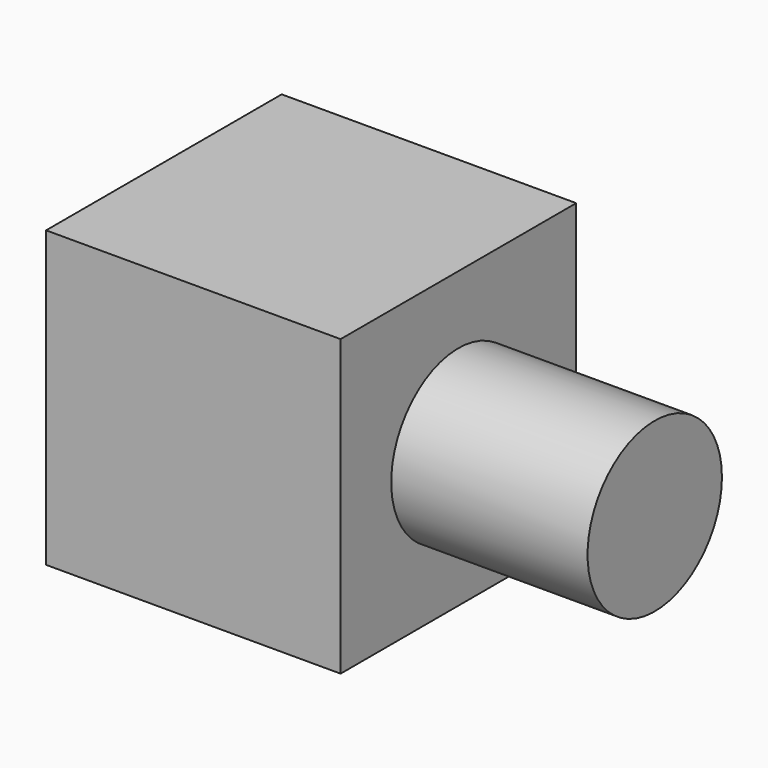
from build123d import *

# Parameters (mm, degrees)
F0_W     = 38.1
F0_H     = 38.1
F1_DEPTH = 19.05
F2_R     = 10.862453
F3_DEPTH = 25.4


with BuildPart() as f1:
    # F0 (on Front) → F1 (new body, symmetric)
    with BuildSketch(Plane.XZ):
        with Locations((-19.05, 19.05)):
            Rectangle(F0_W, F0_H)
    extrude(amount=F1_DEPTH, both=True)

    # F2 (on face) → F3 (join)
    with BuildSketch(Plane.YZ):
        with Locations((0, 18.468129)):
            Circle(F2_R)
    extrude(amount=F3_DEPTH)


solid = f1.part
